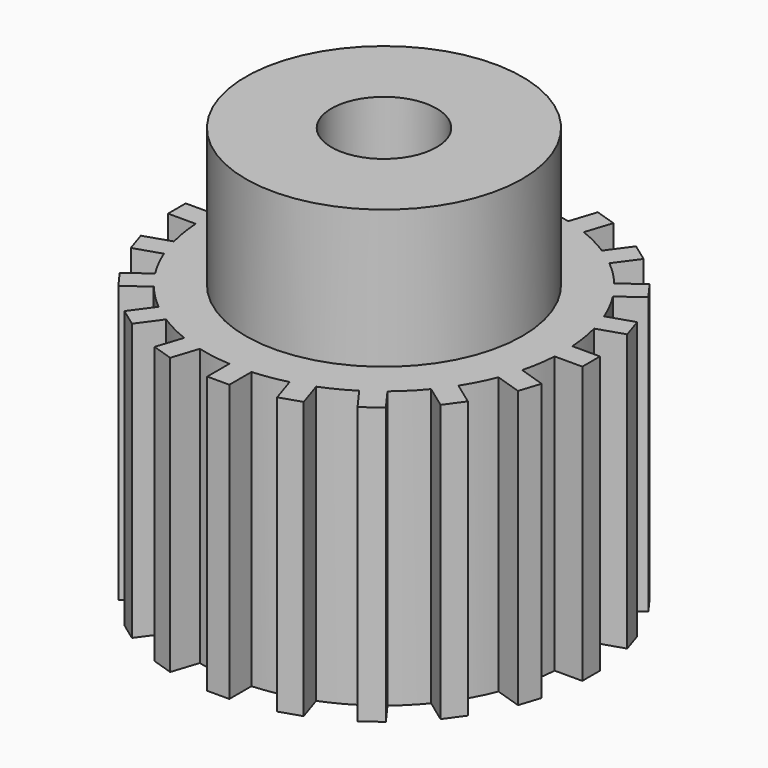
from build123d import *

# Parameters (mm, degrees)
F0_R     = 5
F0_R_2   = 1.9
F1_DEPTH = 15
F2_DEPTH = 10
F3_R     = 3.962687
F4_DEPTH = 5
F3_R_2   = 1.9
F5_DEPTH = 9


with BuildPart() as f1:
    # F0 (on Top) → F1 (new body)
    with BuildSketch(Plane.XY):
        Circle(F0_R)
        Circle(F0_R_2, mode=Mode.SUBTRACT)
    extrude(amount=F1_DEPTH)

    # F0 (on Top) → F2 (join)
    with BuildSketch(Plane.XY):
        with BuildLine():
            ThreePointArc((6.487681, -0.4), (6.496919, -0.200095), (6.5, 0))
            ThreePointArc((6.5, 0), (6.496919, 0.200095), (6.487681, 0.4))
            ThreePointArc((6.487681, 0.4), (6.419974, 1.016824), (6.293758, 1.624381))
            ThreePointArc((6.293758, 1.624381), (6.181867, 2.00861), (6.046544, 2.385226))
            ThreePointArc((6.046544, 2.385226), (5.791542, 2.950938), (5.483758, 3.489756))
            ThreePointArc((5.483758, 3.489756), (5.25861, 3.820604), (5.01353, 4.13697))
            ThreePointArc((5.01353, 4.13697), (4.596194, 4.596194), (4.13697, 5.01353))
            ThreePointArc((4.13697, 5.01353), (3.820604, 5.25861), (3.489756, 5.483758))
            ThreePointArc((3.489756, 5.483758), (2.950938, 5.791542), (2.385226, 6.046544))
            ThreePointArc((2.385226, 6.046544), (2.00861, 6.181867), (1.624381, 6.293758))
            ThreePointArc((1.624381, 6.293758), (1.016824, 6.419974), (0.4, 6.487681))
            ThreePointArc((0.4, 6.487681), (0, 6.5), (-0.4, 6.487681))
            ThreePointArc((-0.4, 6.487681), (-1.016824, 6.419974), (-1.624381, 6.293758))
            ThreePointArc((-1.624381, 6.293758), (-2.00861, 6.181867), (-2.385226, 6.046544))
            ThreePointArc((-2.385226, 6.046544), (-2.950938, 5.791542), (-3.489756, 5.483758))
            ThreePointArc((-3.489756, 5.483758), (-3.820604, 5.25861), (-4.13697, 5.01353))
            ThreePointArc((-4.13697, 5.01353), (-4.596194, 4.596194), (-5.01353, 4.13697))
            ThreePointArc((-5.01353, 4.13697), (-5.25861, 3.820604), (-5.483758, 3.489756))
            ThreePointArc((-5.483758, 3.489756), (-5.791542, 2.950938), (-6.046544, 2.385226))
            ThreePointArc((-6.046544, 2.385226), (-6.181867, 2.00861), (-6.293758, 1.624381))
            ThreePointArc((-6.293758, 1.624381), (-6.419974, 1.016824), (-6.487681, 0.4))
            ThreePointArc((-6.487681, 0.4), (-6.5, 0), (-6.487681, -0.4))
            ThreePointArc((-6.487681, -0.4), (-6.419974, -1.016824), (-6.293758, -1.624381))
            ThreePointArc((-6.293758, -1.624381), (-6.181867, -2.00861), (-6.046544, -2.385226))
            ThreePointArc((-6.046544, -2.385226), (-5.791542, -2.950938), (-5.483758, -3.489756))
            ThreePointArc((-5.483758, -3.489756), (-5.25861, -3.820604), (-5.01353, -4.13697))
            ThreePointArc((-5.01353, -4.13697), (-4.596194, -4.596194), (-4.13697, -5.01353))
            ThreePointArc((-4.13697, -5.01353), (-3.820604, -5.25861), (-3.489756, -5.483758))
            ThreePointArc((-3.489756, -5.483758), (-2.950938, -5.791542), (-2.385226, -6.046544))
            ThreePointArc((-2.385226, -6.046544), (-2.00861, -6.181867), (-1.624381, -6.293758))
            ThreePointArc((-1.624381, -6.293758), (-1.016824, -6.419974), (-0.4, -6.487681))
            ThreePointArc((-0.4, -6.487681), (0, -6.5), (0.4, -6.487681))
            ThreePointArc((0.4, -6.487681), (1.016824, -6.419974), (1.624381, -6.293758))
            ThreePointArc((1.624381, -6.293758), (2.00861, -6.181867), (2.385226, -6.046544))
            ThreePointArc((2.385226, -6.046544), (2.950938, -5.791542), (3.489756, -5.483758))
            ThreePointArc((3.489756, -5.483758), (3.820604, -5.25861), (4.13697, -5.01353))
            ThreePointArc((4.13697, -5.01353), (4.596194, -4.596194), (5.01353, -4.13697))
            ThreePointArc((5.01353, -4.13697), (5.25861, -3.820604), (5.483758, -3.489756))
            ThreePointArc((5.483758, -3.489756), (5.791542, -2.950938), (6.046544, -2.385226))
            ThreePointArc((6.046544, -2.385226), (6.181867, -2.00861), (6.293758, -1.624381))
            ThreePointArc((6.293758, -1.624381), (6.419974, -1.016824), (6.487681, -0.4))
        make_face()
        Circle(F0_R, mode=Mode.SUBTRACT)
        with BuildLine():
            ThreePointArc((-5.483758, 3.489756), (-5.25861, 3.820604), (-5.01353, 4.13697))
            Line((-5.01353, 4.13697), (-5.822547, 4.724755))
            Line((-5.822547, 4.724755), (-6.292775, 4.077541))
            Line((-6.292775, 4.077541), (-5.483758, 3.489756))
        make_face()
        with BuildLine():
            ThreePointArc((-4.13697, 5.01353), (-3.820604, 5.25861), (-3.489756, 5.483758))
            Line((-3.489756, 5.483758), (-4.077541, 6.292775))
            Line((-4.077541, 6.292775), (-4.724755, 5.822547))
            Line((-4.724755, 5.822547), (-4.13697, 5.01353))
        make_face()
        with BuildLine():
            ThreePointArc((-6.487681, -0.4), (-6.5, 0), (-6.487681, 0.4))
            Line((-6.487681, 0.4), (-7.487681, 0.4))
            Line((-7.487681, 0.4), (-7.487681, -0.4))
            Line((-7.487681, -0.4), (-6.487681, -0.4))
        make_face()
        with BuildLine():
            Line((-6.997601, -2.694243), (-6.046544, -2.385226))
            ThreePointArc((-6.046544, -2.385226), (-6.181867, -2.00861), (-6.293758, -1.624381))
            Line((-6.293758, -1.624381), (-7.244814, -1.933398))
            Line((-7.244814, -1.933398), (-6.997601, -2.694243))
        make_face()
        with BuildLine():
            ThreePointArc((-6.293758, 1.624381), (-6.181867, 2.00861), (-6.046544, 2.385226))
            Line((-6.046544, 2.385226), (-6.997601, 2.694243))
            Line((-6.997601, 2.694243), (-7.244814, 1.933398))
            Line((-7.244814, 1.933398), (-6.293758, 1.624381))
        make_face()
        with BuildLine():
            Line((-5.822547, -4.724755), (-5.01353, -4.13697))
            ThreePointArc((-5.01353, -4.13697), (-5.25861, -3.820604), (-5.483758, -3.489756))
            Line((-5.483758, -3.489756), (-6.292775, -4.077541))
            Line((-6.292775, -4.077541), (-5.822547, -4.724755))
        make_face()
        with BuildLine():
            Line((-4.077541, -6.292775), (-3.489756, -5.483758))
            ThreePointArc((-3.489756, -5.483758), (-3.820604, -5.25861), (-4.13697, -5.01353))
            Line((-4.13697, -5.01353), (-4.724755, -5.822547))
            Line((-4.724755, -5.822547), (-4.077541, -6.292775))
        make_face()
        with BuildLine():
            Line((-1.933398, -7.244814), (-1.624381, -6.293758))
            ThreePointArc((-1.624381, -6.293758), (-2.00861, -6.181867), (-2.385226, -6.046544))
            Line((-2.385226, -6.046544), (-2.694243, -6.997601))
            Line((-2.694243, -6.997601), (-1.933398, -7.244814))
        make_face()
        with BuildLine():
            Line((0.4, -7.487681), (0.4, -6.487681))
            ThreePointArc((0.4, -6.487681), (0, -6.5), (-0.4, -6.487681))
            Line((-0.4, -6.487681), (-0.4, -7.487681))
            Line((-0.4, -7.487681), (0.4, -7.487681))
        make_face()
        with BuildLine():
            Line((2.694243, -6.997601), (2.385226, -6.046544))
            ThreePointArc((2.385226, -6.046544), (2.00861, -6.181867), (1.624381, -6.293758))
            Line((1.624381, -6.293758), (1.933398, -7.244814))
            Line((1.933398, -7.244814), (2.694243, -6.997601))
        make_face()
        with BuildLine():
            Line((4.724755, -5.822547), (4.13697, -5.01353))
            ThreePointArc((4.13697, -5.01353), (3.820604, -5.25861), (3.489756, -5.483758))
            Line((3.489756, -5.483758), (4.077541, -6.292775))
            Line((4.077541, -6.292775), (4.724755, -5.822547))
        make_face()
        with BuildLine():
            Line((7.244814, -1.933398), (6.293758, -1.624381))
            ThreePointArc((6.293758, -1.624381), (6.181867, -2.00861), (6.046544, -2.385226))
            Line((6.046544, -2.385226), (6.997601, -2.694243))
            Line((6.997601, -2.694243), (7.244814, -1.933398))
        make_face()
        with BuildLine():
            ThreePointArc((6.487681, 0.4), (6.496919, 0.200095), (6.5, 0))
            ThreePointArc((6.5, 0), (6.496919, -0.200095), (6.487681, -0.4))
            Line((6.487681, -0.4), (7.487681, -0.4))
            Line((7.487681, -0.4), (7.487681, 0.4))
            Line((7.487681, 0.4), (6.487681, 0.4))
        make_face()
        with BuildLine():
            ThreePointArc((6.046544, 2.385226), (6.181867, 2.00861), (6.293758, 1.624381))
            Line((6.293758, 1.624381), (7.244814, 1.933398))
            Line((7.244814, 1.933398), (6.997601, 2.694243))
            Line((6.997601, 2.694243), (6.046544, 2.385226))
        make_face()
        with BuildLine():
            ThreePointArc((3.489756, 5.483758), (3.820604, 5.25861), (4.13697, 5.01353))
            Line((4.13697, 5.01353), (4.724755, 5.822547))
            Line((4.724755, 5.822547), (4.077541, 6.292775))
            Line((4.077541, 6.292775), (3.489756, 5.483758))
        make_face()
        with BuildLine():
            Line((6.292775, -4.077541), (5.483758, -3.489756))
            ThreePointArc((5.483758, -3.489756), (5.25861, -3.820604), (5.01353, -4.13697))
            Line((5.01353, -4.13697), (5.822547, -4.724755))
            Line((5.822547, -4.724755), (6.292775, -4.077541))
        make_face()
        with BuildLine():
            ThreePointArc((5.01353, 4.13697), (5.25861, 3.820604), (5.483758, 3.489756))
            Line((5.483758, 3.489756), (6.292775, 4.077541))
            Line((6.292775, 4.077541), (5.822547, 4.724755))
            Line((5.822547, 4.724755), (5.01353, 4.13697))
        make_face()
        with BuildLine():
            ThreePointArc((1.624381, 6.293758), (2.00861, 6.181867), (2.385226, 6.046544))
            Line((2.385226, 6.046544), (2.694243, 6.997601))
            Line((2.694243, 6.997601), (1.933398, 7.244814))
            Line((1.933398, 7.244814), (1.624381, 6.293758))
        make_face()
        with BuildLine():
            ThreePointArc((-2.385226, 6.046544), (-2.00861, 6.181867), (-1.624381, 6.293758))
            Line((-1.624381, 6.293758), (-1.933398, 7.244814))
            Line((-1.933398, 7.244814), (-2.694243, 6.997601))
            Line((-2.694243, 6.997601), (-2.385226, 6.046544))
        make_face()
        with BuildLine():
            ThreePointArc((-0.4, 6.487681), (0, 6.5), (0.4, 6.487681))
            Line((0.4, 6.487681), (0.4, 7.487681))
            Line((0.4, 7.487681), (-0.4, 7.487681))
            Line((-0.4, 7.487681), (-0.4, 6.487681))
        make_face()
    extrude(amount=F2_DEPTH)

    # F3 (on face) → F4 (cut)
    with BuildSketch(Plane.XY):
        Circle(F3_R)
        Polygon((-2.7, 1.558846), (0, 3.117691), (2.7, 1.558846), (2.7, -1.558846), (0, -3.117691), (-2.7, -1.558846), align=None, mode=Mode.SUBTRACT)
    extrude(amount=F4_DEPTH, mode=Mode.SUBTRACT)

    # F3 (on face) → F5 (cut)
    with BuildSketch(Plane.XY):
        Polygon((2.7, 1.558846), (0, 3.117691), (-2.7, 1.558846), (-2.7, -1.558846), (0, -3.117691), (2.7, -1.558846), align=None)
        Circle(F3_R_2, mode=Mode.SUBTRACT)
    extrude(amount=F5_DEPTH, mode=Mode.SUBTRACT)


solid = f1.part
